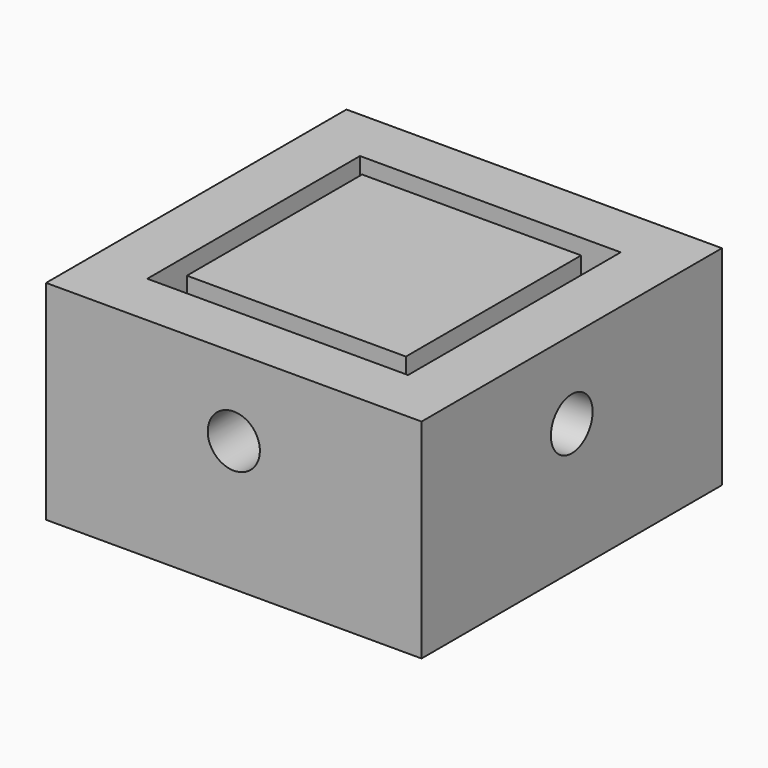
from build123d import *

# Parameters (mm, degrees)
F0_W     = 36
F0_H     = 36
F1_DEPTH = 5
F2_W     = 21
F2_H     = 21
F3_DEPTH = 15
F4_W     = 36
F4_H     = 36
F4_W_2   = 25
F4_H_2   = 25.4870138154
F5_DEPTH = 15
F6_R     = 2.5
F7_DEPTH = 40
F8_R     = 2.5
F9_DEPTH = 40


with BuildPart() as f1:
    # F0 (on Top) → F1 (new body)
    with BuildSketch(Plane.XY):
        Rectangle(F0_W, F0_H)
    extrude(amount=F1_DEPTH)

    # F2 (on face) → F3 (join)
    with BuildSketch(Plane.XY.offset(5)):
        Rectangle(F2_W, F2_H)
    extrude(amount=F3_DEPTH)

    # F4 (on face) → F5 (join)
    with BuildSketch(Plane.XY.offset(5)):
        Rectangle(F4_W, F4_H)
        Rectangle(F4_W_2, F4_H_2, mode=Mode.SUBTRACT)
    extrude(amount=F5_DEPTH)

    # F6 (on face) → F7 (cut)
    with BuildSketch(Plane.XZ.offset(18)):
        with Locations((0, 12.5)):
            Circle(F6_R)
    extrude(amount=-F7_DEPTH, mode=Mode.SUBTRACT)

    # F8 (on face) → F9 (cut)
    with BuildSketch(Plane(origin=(-18, 0, 0), x_dir=(0, -1, 0), z_dir=(-1, 0, 0))):
        with Locations((0, 12.5)):
            Circle(F8_R)
    extrude(amount=-F9_DEPTH, mode=Mode.SUBTRACT)


solid = f1.part
